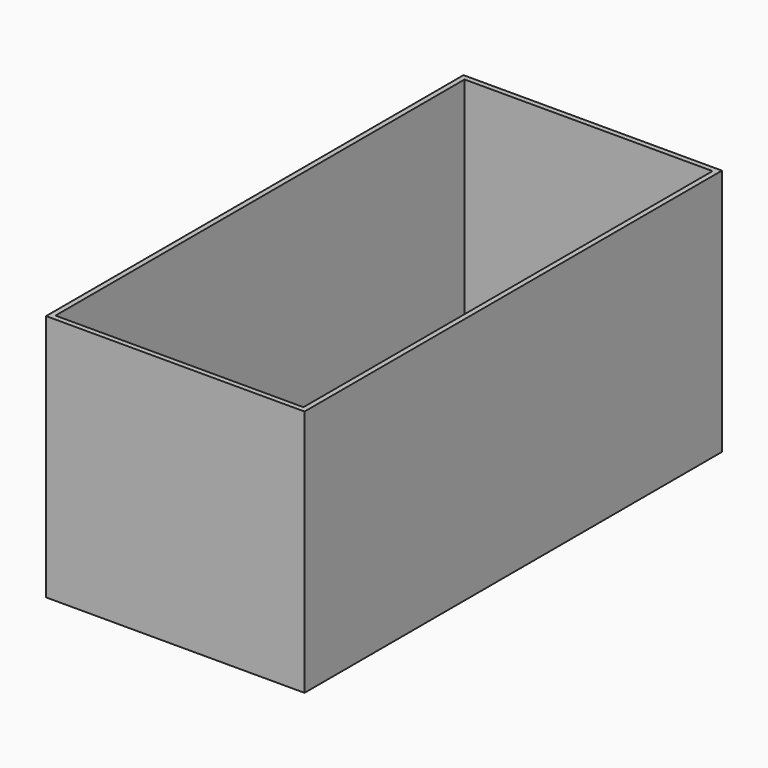
from build123d import *

# Parameters (mm, degrees)
F0_W     = 62.899158
F0_H     = 60.284752
F1_DEPTH = 63.5
F2_T     = -1.27


with BuildPart() as f1:
    # F0 (on Front) → F1 (new body, symmetric)
    with BuildSketch(Plane.XZ):
        Rectangle(F0_W, F0_H)
    extrude(amount=F1_DEPTH, both=True)

    # F2
    f2_openings = [f1.faces().sort_by_distance(p)[0] for p in [
        (0, 0, 30.142376),
    ]]
    offset(amount=F2_T, openings=f2_openings)


solid = f1.part
